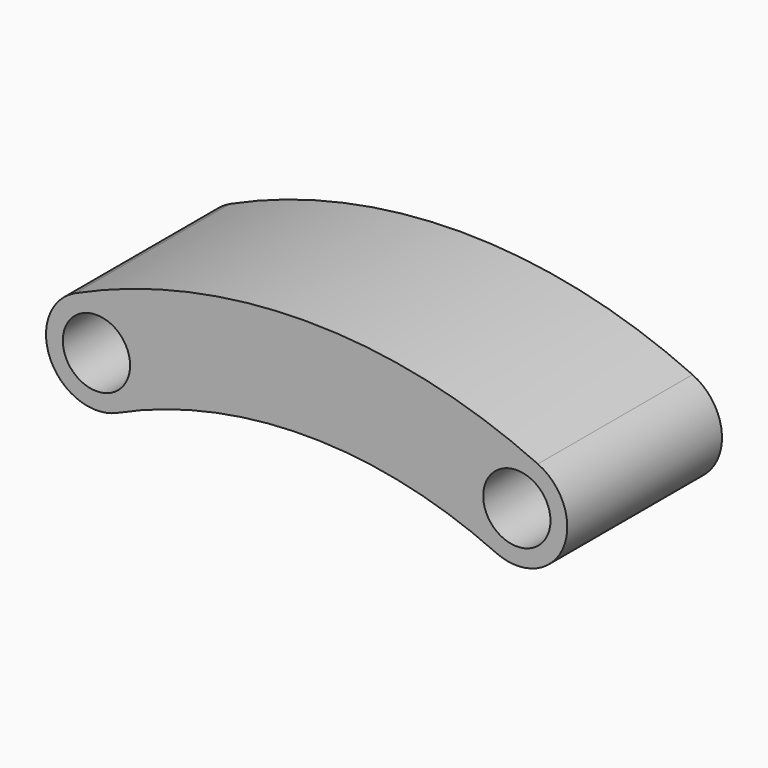
from build123d import *

# Parameters (mm, degrees)
F0_R     = 2
F1_DEPTH = 11.5


with BuildPart() as f1:
    # F0 (on Front) → F1 (new body)
    with BuildSketch(Plane.XZ):
        with BuildLine():
            ThreePointArc((11.25, 24.544602), (15.227178, 26.02178), (13.75, 29.998958))
            ThreePointArc((13.75, 29.998958), (0, 33), (-13.75, 29.998958))
            ThreePointArc((-13.75, 29.998958), (-15.227178, 26.02178), (-11.25, 24.544602))
            ThreePointArc((-11.25, 24.544602), (0, 27), (11.25, 24.544602))
        make_face()
        with Locations((-12.5, 27.27178)):
            Circle(F0_R, mode=Mode.SUBTRACT)
        with Locations((12.5, 27.27178)):
            Circle(F0_R, mode=Mode.SUBTRACT)
    extrude(amount=F1_DEPTH)


solid = f1.part
